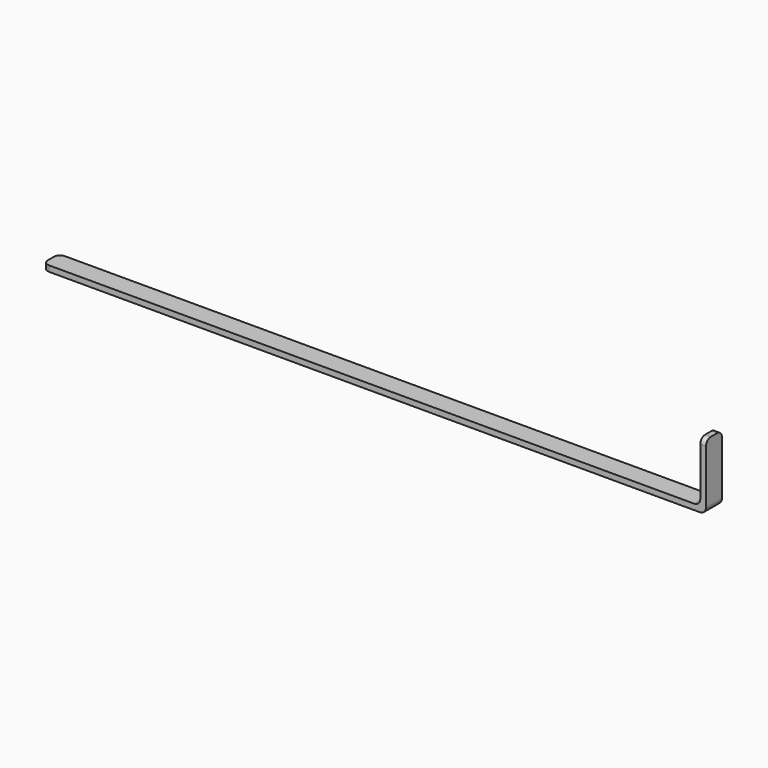
from build123d import *

# Parameters (mm, degrees)
F0_W     = 220
F0_H     = 6.6
F1_DEPTH = 1.9
F2_W     = 1.9
F2_H     = 6.6
F3_DEPTH = 20
F4_R     = 2


with BuildPart() as f1:
    # F0 (on Top) → F1 (new body)
    with BuildSketch(Plane.XY):
        with Locations((110, -3.3)):
            Rectangle(F0_W, F0_H)
    extrude(amount=F1_DEPTH)

    # F2 (on face) → F3 (join)
    with BuildSketch(Plane.XY.offset(1.9)):
        with Locations((219.05, -3.3)):
            Rectangle(F2_W, F2_H)
    extrude(amount=F3_DEPTH)

    # F4
    f4_edges = [f1.edges().sort_by_distance(p)[0] for p in [
        (220, -3.3, 0),
        (218.1, -3.3, 1.9),
        (219.05, -6.6, 21.9),
        (219.05, 0, 21.9),
        (0, -6.6, 0.95),
        (0, 0, 0.95),
    ]]
    fillet(f4_edges, radius=F4_R)


solid = f1.part
